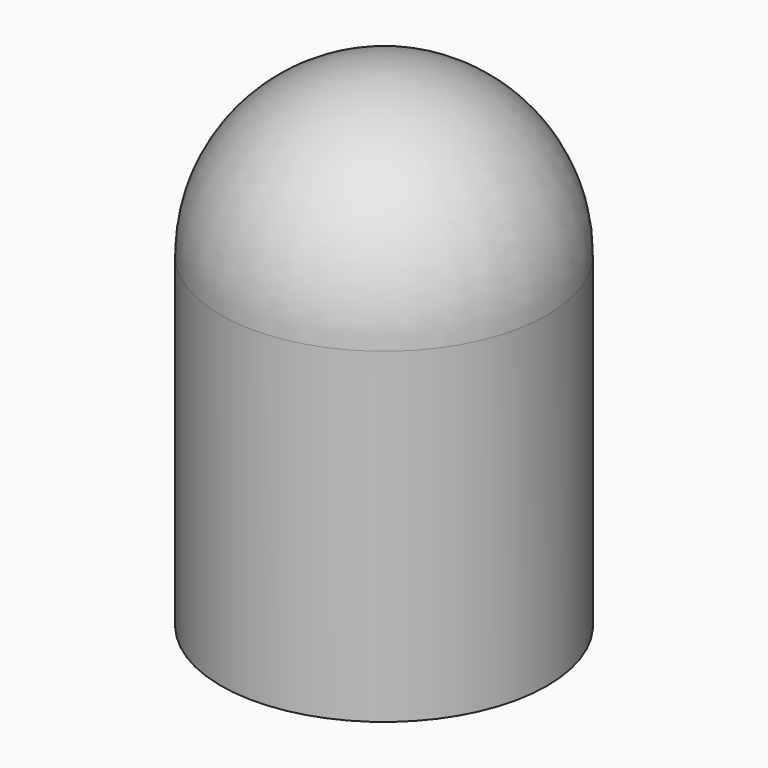
from build123d import *


with BuildPart() as f1:
    # F0 (on Front) → F1 (revolve)
    with BuildSketch(Plane.XZ):
        with BuildLine():
            ThreePointArc((-2.355222, 24.351306), (8.25138, 19.957908), (12.644778, 9.351306))
            Line((12.644778, 9.351306), (12.644778, -30.648694))
            Line((12.644778, -30.648694), (17.644778, -30.648694))
            Line((17.644778, -30.648694), (17.644778, 9.351306))
            ThreePointArc((17.644778, 9.351306), (11.786914, 23.493443), (-2.355222, 29.351307))
            Line((-2.355222, 29.351307), (-2.355222, 24.351306))
        make_face()
    revolve(axis=Axis((-2.355222, 0, 26.851307), (0, 0, -1)))


solid = f1.part
